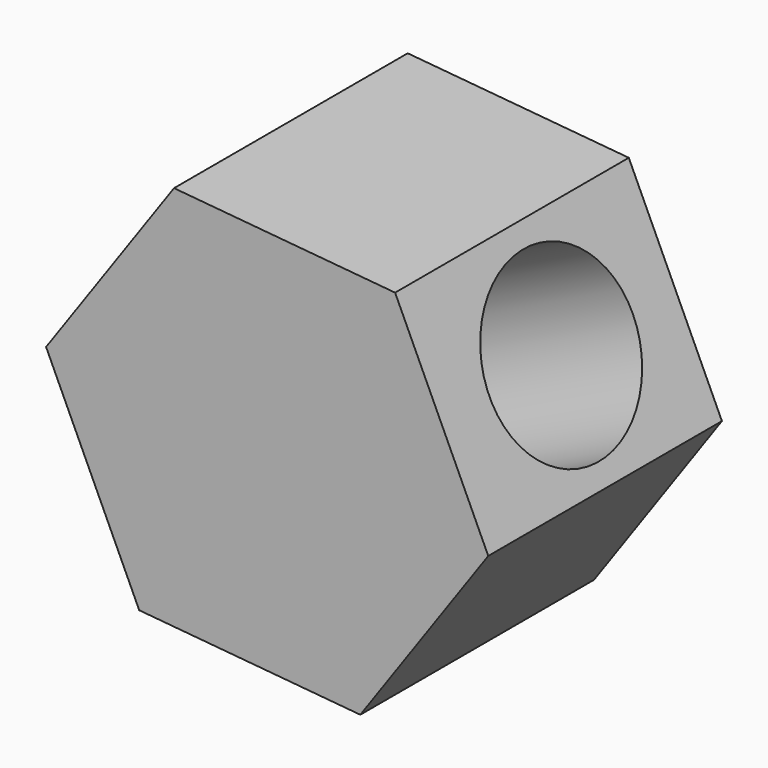
from build123d import *

# Parameters (mm, degrees)
F1_DEPTH = 25
F2_R     = 4.75
F3_DEPTH = 10
F4_R     = 7.6714476374
F5_DEPTH = 39.4


with BuildPart() as f1:
    # F0 (on Front) → F1 (new body)
    with BuildSketch(Plane.XZ):
        Polygon((-7.9714226845, 17.2469249544), (-18.92198649, 1.7200079281), (-10.9505638054, -15.5269170263), (7.9714226845, -17.2469249544), (18.92198649, -1.7200079281), (10.9505638054, 15.5269170263), align=None)
    extrude(amount=F1_DEPTH)

    # F2 (on face) → F3 (cut)
    with BuildSketch(Plane(origin=(-1.4895705605, 0, -16.3869209904), x_dir=(0.9958940258, 0, -0.0905267331), z_dir=(-0.0905267331, 0, -0.9958940258))):
        with Locations((0, 11.4799719304)):
            Circle(F2_R)
    extrude(amount=-F3_DEPTH, mode=Mode.SUBTRACT)

    # F4 (on face) → F5 (cut)
    with BuildSketch(Plane(origin=(14.9362751477, 0, 6.9034545491), x_dir=(0, 1, 0), z_dir=(0.9077328923, 0, 0.4195485623))):
        with Locations((-12.2148720548, 0)):
            Circle(F4_R)
    extrude(amount=-F5_DEPTH, mode=Mode.SUBTRACT)


solid = f1.part
